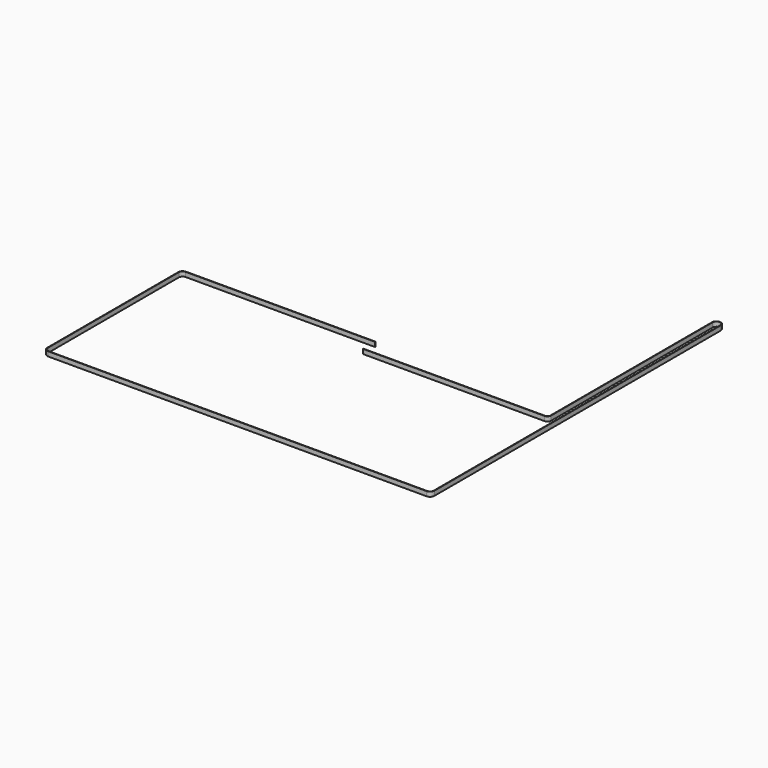
from build123d import *

# Parameters (mm, degrees)
F1_DEPTH = 6


with BuildPart() as f1:
    # F0 (on Top) → F1 (new body)
    with BuildSketch(Plane.XY):
        with BuildLine():
            ThreePointArc((243.905, 260.5), (249, 265.595), (254.095, 260.5))
            Line((254.095, 260.5), (254.095, -210.5))
            ThreePointArc((254.095, -210.5), (252.602709, -214.102709), (249, -215.595))
            Line((249, -215.595), (0, -215.595))
            Line((0, -215.595), (-249, -215.595))
            ThreePointArc((-249, -215.595), (-252.602709, -214.102709), (-254.095, -210.5))
            Line((-254.095, -210.5), (-254.095, 5))
            ThreePointArc((-254.095, 5), (-252.602709, 8.602709), (-249, 10.095))
            Line((-249, 10.095), (0, 10.095))
            Line((0, 10.095), (0, 10.116))
            Line((0, 10.116), (0, 10.725))
            Line((0, 10.725), (-249, 10.725))
            ThreePointArc((-249, 10.725), (-253.048186, 9.048186), (-254.725, 5))
            Line((-254.725, 5), (-254.725, -210.5))
            ThreePointArc((-254.725, -210.5), (-253.048186, -214.548186), (-249, -216.225))
            Line((-249, -216.225), (0, -216.225))
            Line((0, -216.225), (249, -216.225))
            ThreePointArc((249, -216.225), (253.048186, -214.548186), (254.725, -210.5))
            Line((254.725, -210.5), (254.725, 260.5))
            ThreePointArc((254.725, 260.5), (249, 266.225), (243.275, 260.5))
            Line((243.275, 260.5), (243.275, -5))
            ThreePointArc((243.275, -5), (242.037526, -7.987526), (239.050001, -9.224999))
            Line((239.050001, -9.224999), (236.658265, -9.224999))
            Line((236.658265, -9.224999), (0, -9.224999))
            Line((0, -9.224999), (0, -9.854999))
            Line((0, -9.854999), (239.050001, -9.854999))
            ThreePointArc((239.050001, -9.854999), (242.483004, -8.433003), (243.905, -5))
            Line((243.905, -5), (243.905, 260.5))
        make_face()
    extrude(amount=F1_DEPTH)


solid = f1.part
